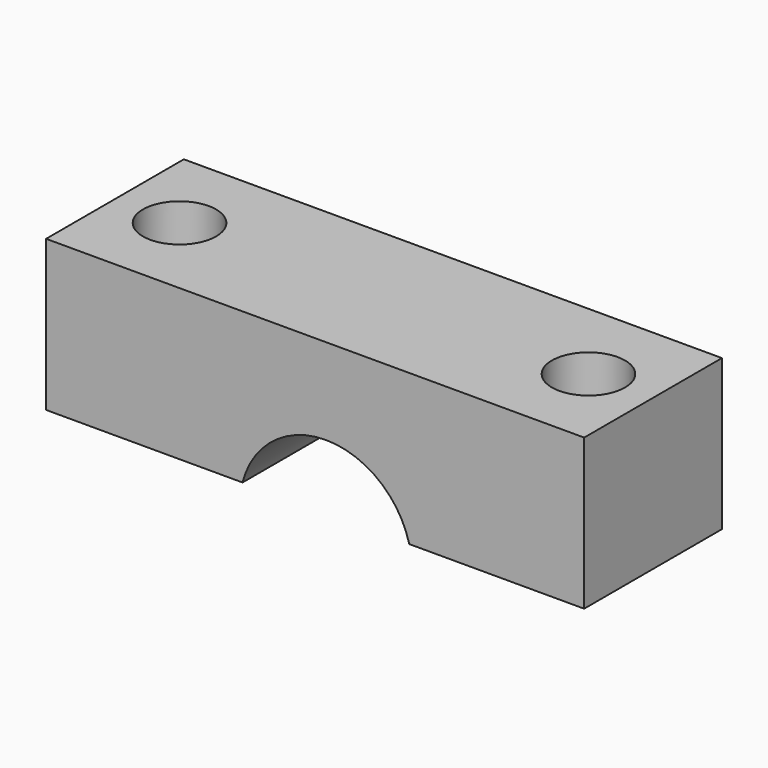
from build123d import *

# Parameters (mm, degrees)
SKETCH_W     = 25
SKETCH_H     = 8
SKETCH_R     = 1.7
PAD_DEPTH    = 7
SKETCH002_R  = 4
POCKET_DEPTH = 8.001


with BuildPart() as part:
    # Sketch → Pad (new body)
    with BuildSketch(Plane.XY):
        with Locations((9.5, 0)):
            Rectangle(SKETCH_W, SKETCH_H)
        Circle(SKETCH_R, mode=Mode.SUBTRACT)
        with Locations((19, 0)):
            Circle(SKETCH_R, mode=Mode.SUBTRACT)
    extrude(amount=PAD_DEPTH)

    # Sketch002 → Pocket (cut, through all)
    with BuildSketch(Plane.XZ.offset(4)):
        with Locations((10, -1)):
            Circle(SKETCH002_R)
    extrude(amount=-POCKET_DEPTH, mode=Mode.SUBTRACT)


solid = part.part
